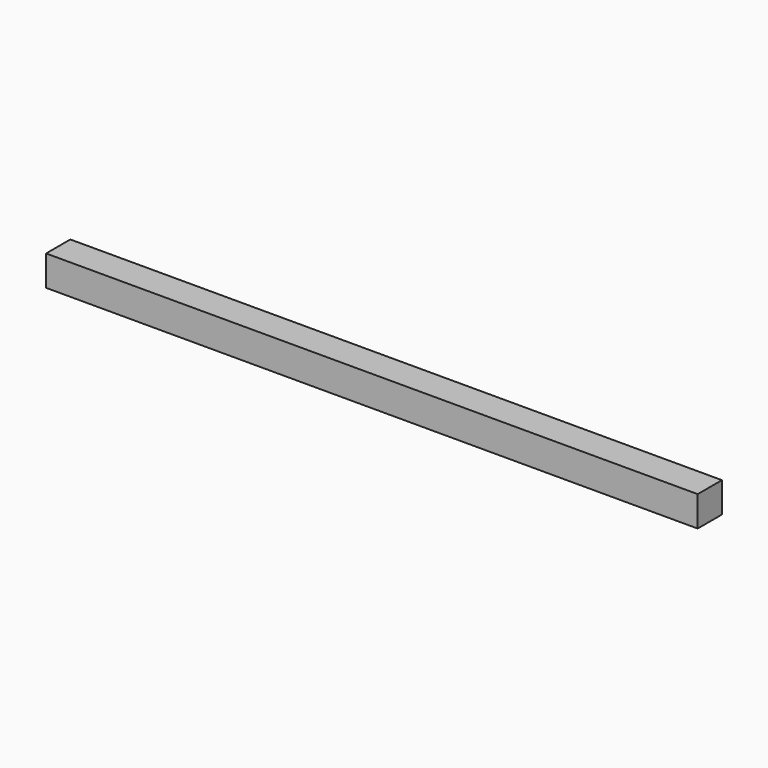
from build123d import *

# Parameters (mm, degrees)
BOX_W     = 430
BOX_H     = 20
BOX_DEPTH = 20


with BuildPart() as part:
    # Box → Box (new body)
    with BuildSketch(Plane.XY):
        with Locations((215, 10)):
            Rectangle(BOX_W, BOX_H)
    extrude(amount=BOX_DEPTH)


solid = part.part
